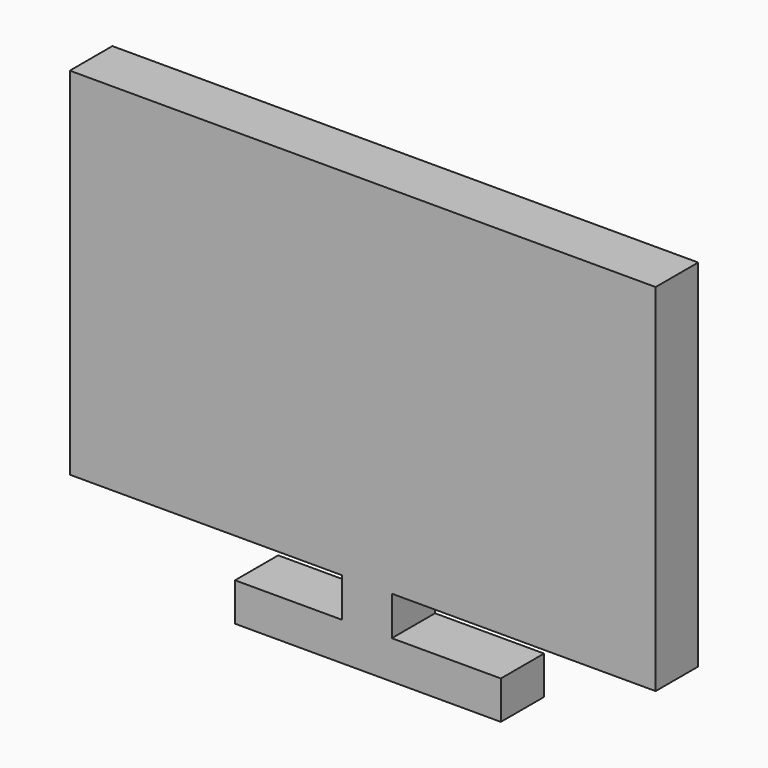
from build123d import *

# Parameters (mm, degrees)
F0_W     = 176.3164922595
F0_H     = 107.0637442172
F0_W_2   = 167.9538153112
F0_H_2   = 100.156404078
F1_DEPTH = 16.002
F2_W     = 14.965901617
F2_H     = 11.8000358343
F2_W_2   = 112.8198541701
F2_H_2   = 94.6880914271
F3_DEPTH = 16.256


with BuildPart() as f1:
    # F0 (on Front) → F1 (new body)
    with BuildSketch(Plane.XZ):
        with Locations((-1.561973244, 11.2244244665)):
            Rectangle(F0_W, F0_H)
        with Locations((-1.1848155409, 10.9366178513)):
            Rectangle(F0_W_2, F0_H_2, mode=Mode.SUBTRACT)
        with Locations((-1.1848155409, 10.9366178513)):
            Rectangle(F0_W_2, F0_H_2)
    extrude(amount=F1_DEPTH)

    # F2 (on face) → F3 (join)
    with BuildSketch(Plane.XZ.offset(16.002)):
        Polygon((7.1951453574, -54.1074834764), (-7.7707562596, -54.1074834764), (-40.0050021708, -54.1074834764), (-40.0050021708, -65.6197145581), (40.0049984455, -65.6197145581), (40.0049984455, -54.1074834764), align=None)
        with Locations((-0.2878054511, -48.2074655592)):
            Rectangle(F2_W, F2_H)
        with Locations((0.2878028899, 11.3683287054)):
            Rectangle(F2_W_2, F2_H_2)
    extrude(amount=-F3_DEPTH)


solid = f1.part
